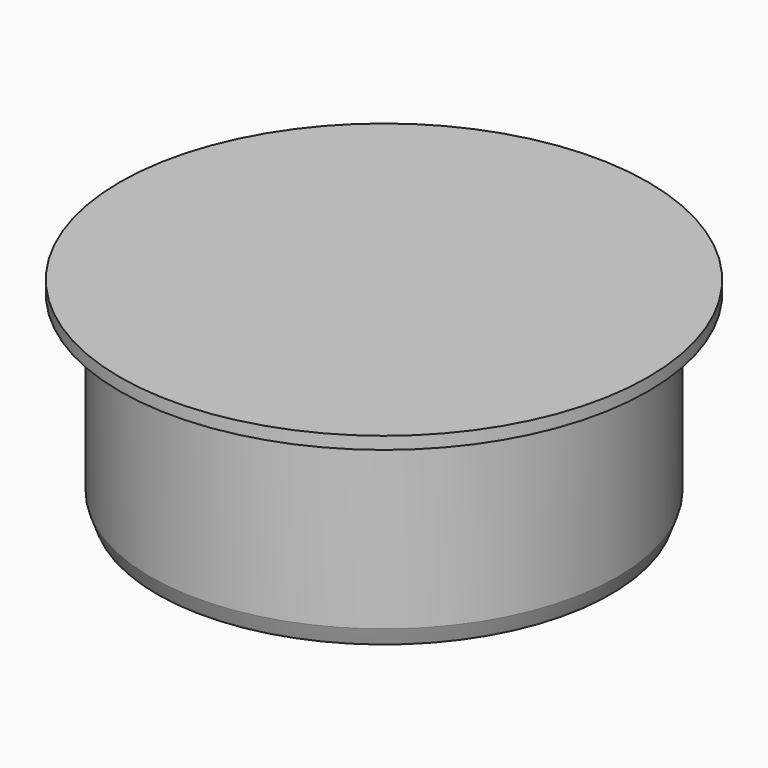
from build123d import *

# Parameters (mm, degrees)
F2_SIZE2 = 1
F2_SIZE  = 2.7474774195


with BuildPart() as f1:
    # F0 (on Front) → F1 (revolve)
    with BuildSketch(Plane.XZ):
        Polygon((0, 43.895201116), (0, 45.895201116), (-42.5, 45.895201116), (-42.5, 43.895201116), (-37.5, 43.895201116), (-37.5, 13.2007567672), (-35.5, 13.2007567672), (-35.5, 43.895201116), align=None)
    revolve(axis=Axis((0, 0, 20.4379661009), (0, 0, 1)))

    # F2
    f2_edges = [f1.edges().sort_by_distance(p)[0] for p in [
        (37.5, 0, 13.200757),
    ]]
    f2_side = f1.faces().sort_by_distance((37.5, 0, 28.547979))[0]
    chamfer(f2_edges, length=F2_SIZE, length2=F2_SIZE2, reference=f2_side)


solid = f1.part
